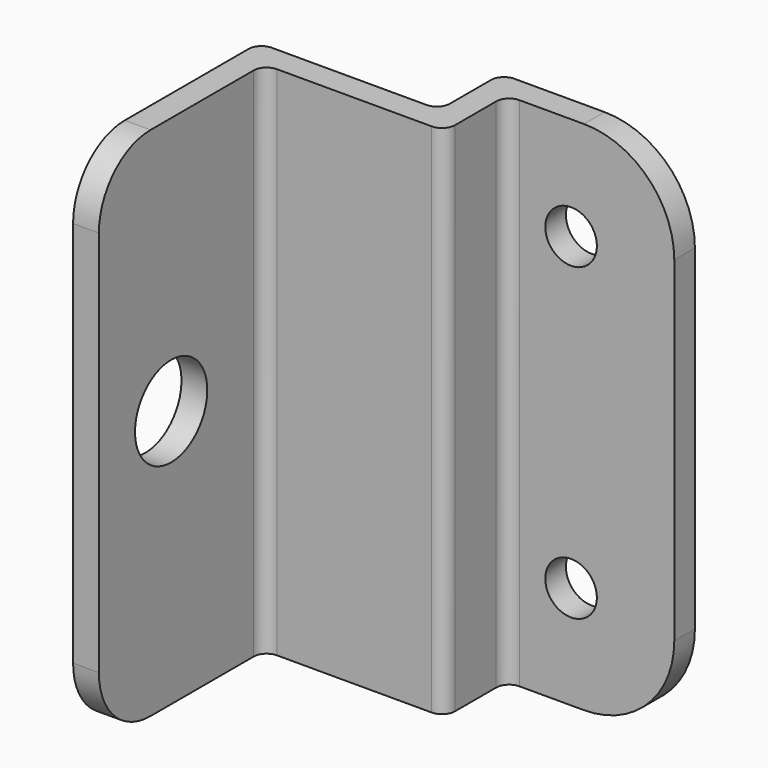
from build123d import *

# Parameters (mm, degrees)
F1_DEPTH = 40
F2_R     = 1
F3_R     = 5
F4_R     = 3.5
F5_DEPTH = 25
F6_R     = 2
F7_DEPTH = 25
F8_R     = 7


with BuildPart() as f1:
    # F0 (on Top) → F1 (new body)
    with BuildSketch(Plane.XY):
        Polygon((-5.000828, 5.989827), (-7.000828, 5.989827), (-7.000828, -12.010173), (-5.000828, -12.010173), (-5.000828, 3.989827), (6.999172, 3.989827), (8.999172, 3.989827), (8.999172, 9.989827), (21.999172, 9.989827), (21.999172, 11.989827), (8.999172, 11.989827), (6.999172, 11.989827), (6.999172, 9.989827), (6.999172, 5.989827), align=None)
    extrude(amount=F1_DEPTH)

    # F2
    f2_edges = [f1.edges().sort_by_distance(p)[0] for p in [
        (-7.000828, 5.989827, 20),
        (6.999172, 11.989827, 20),
        (-5.000828, 3.989827, 20),
        (8.999172, 9.989827, 20),
        (8.999172, 3.989827, 20),
        (6.999172, 5.989827, 20),
    ]]
    fillet(f2_edges, radius=F2_R)

    # F3
    f3_edges = [f1.edges().sort_by_distance(p)[0] for p in [
        (-6.000828, -12.010173, 0),
        (-6.000828, -12.010173, 40),
    ]]
    fillet(f3_edges, radius=F3_R)

    # F4 (on face) → F5 (cut)
    with BuildSketch(Plane(origin=(-7.000828, 0, 0), x_dir=(0, -1, 0), z_dir=(-1, 0, 0))):
        with Locations((5.010173, 20)):
            Circle(F4_R)
    extrude(amount=-F5_DEPTH, mode=Mode.SUBTRACT)

    # F6 (on face) → F7 (cut)
    with BuildSketch(Plane(origin=(0, 11.989827, 0), x_dir=(-1, 0, 0), z_dir=(0, 1, 0))):
        with Locations((-13.999172, 8)):
            Circle(F6_R)
        with Locations((-13.999172, 32)):
            Circle(F6_R)
    extrude(amount=-F7_DEPTH, mode=Mode.SUBTRACT)

    # F8
    f8_edges = [f1.edges().sort_by_distance(p)[0] for p in [
        (21.999172, 10.989827, 0),
        (21.999172, 10.989827, 40),
    ]]
    fillet(f8_edges, radius=F8_R)


solid = f1.part
